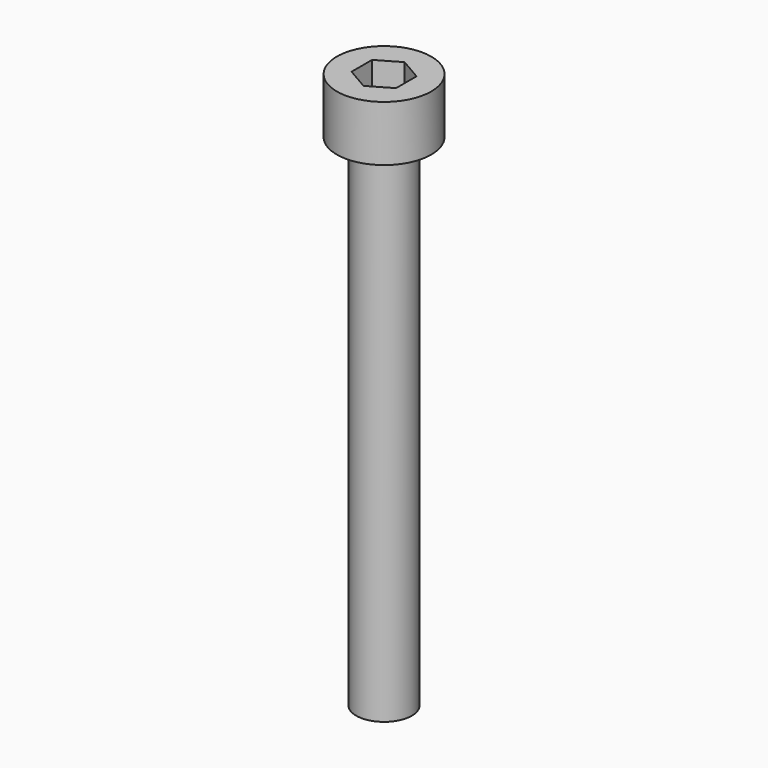
from build123d import *

# Parameters (mm, degrees)
SKETCH_R     = 4.25
PAD_DEPTH    = 5
POCKET_DEPTH = 2.5
SKETCH002_R  = 2.5
PAD001_DEPTH = 45


with BuildPart() as part:
    # Sketch → Pad (new body)
    with BuildSketch(Plane.XY):
        Circle(SKETCH_R)
    extrude(amount=PAD_DEPTH)

    # Sketch001 → Pocket (cut)
    with BuildSketch(Plane.XY.offset(5)):
        Polygon((0, -2.309401), (2, -1.154701), (2, 1.154701), (0, 2.309401), (-2, 1.154701), (-2, -1.154701), align=None)
    extrude(amount=-POCKET_DEPTH, mode=Mode.SUBTRACT)

    # Sketch002 → Pad001 (join)
    with BuildSketch(Plane.XY):
        Circle(SKETCH002_R)
    extrude(amount=-PAD001_DEPTH)


solid = part.part
